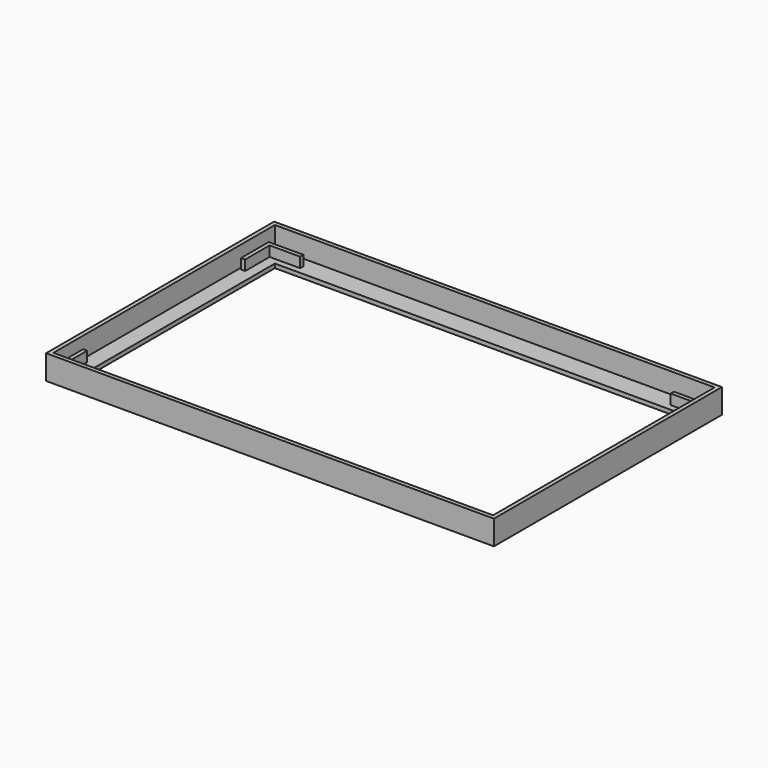
from build123d import *

# Parameters (mm, degrees)
F0_W     = 220
F0_H     = 140
F0_W_2   = 200
F0_H_2   = 115
F1_DEPTH = 2
F2_DEPTH = 5
F3_DEPTH = 10


with BuildPart() as f1:
    # F0 (on Top) → F1 (new body)
    with BuildSketch(Plane.XY):
        with Locations((-1.9406005144, 8.4791064262)):
            Rectangle(F0_W, F0_H)
        Polygon((106.0593994856, 76.4791064262), (106.0593994856, 71.4791064262), (107.0593994856, 71.4791064262), (107.0593994856, 69.4791064262), (107.0593994856, 54.4791064262), (106.0593994856, 54.4791064262), (106.0593994856, -42.5208935738), (107.0593994856, -42.5208935738), (107.0593994856, -57.5208935738), (107.0593994856, -59.5208935738), (106.0593994856, -59.5208935738), (105.0593994856, -59.5208935738), (90.0593994856, -59.5208935738), (-91.9406005144, -59.5208935738), (-106.9406005144, -59.5208935738), (-108.9406005144, -59.5208935738), (-109.9406005144, -59.5208935738), (-109.9406005144, 76.4791064262), align=None, mode=Mode.SUBTRACT)
        Polygon((90.0593994856, 69.4791064262), (90.0593994856, 71.4791064262), (105.0593994856, 71.4791064262), (106.0593994856, 71.4791064262), (106.0593994856, 76.4791064262), (-109.9406005144, 76.4791064262), (-109.9406005144, -59.5208935738), (-108.9406005144, -59.5208935738), (-108.9406005144, -57.5208935738), (-108.9406005144, -42.5208935738), (-106.9406005144, -42.5208935738), (-106.9406005144, -57.5208935738), (-91.9406005144, -57.5208935738), (-91.9406005144, -59.5208935738), (90.0593994856, -59.5208935738), (90.0593994856, -57.5208935738), (105.0593994856, -57.5208935738), (105.0593994856, -42.5208935738), (106.0593994856, -42.5208935738), (106.0593994856, 54.4791064262), (105.0593994856, 54.4791064262), (105.0593994856, 69.4791064262), align=None)
        Polygon((-106.9406005144, 54.4791064262), (-108.9406005144, 54.4791064262), (-108.9406005144, 69.4791064262), (-108.9406005144, 71.4791064262), (-106.9406005144, 71.4791064262), (-91.9406005144, 71.4791064262), (-91.9406005144, 69.4791064262), (-106.9406005144, 69.4791064262), align=None, mode=Mode.SUBTRACT)
        with Locations((-1.9406005144, 8.9791064262)):
            Rectangle(F0_W_2, F0_H_2, mode=Mode.SUBTRACT)
        Polygon((-108.9406005144, -57.5208935738), (-108.9406005144, -59.5208935738), (-106.9406005144, -59.5208935738), (-91.9406005144, -59.5208935738), (-91.9406005144, -57.5208935738), (-106.9406005144, -57.5208935738), (-106.9406005144, -42.5208935738), (-108.9406005144, -42.5208935738), align=None)
        Polygon((-108.9406005144, 69.4791064262), (-108.9406005144, 54.4791064262), (-106.9406005144, 54.4791064262), (-106.9406005144, 69.4791064262), (-91.9406005144, 69.4791064262), (-91.9406005144, 71.4791064262), (-106.9406005144, 71.4791064262), (-108.9406005144, 71.4791064262), align=None)
        Polygon((105.0593994856, 71.4791064262), (90.0593994856, 71.4791064262), (90.0593994856, 69.4791064262), (105.0593994856, 69.4791064262), (105.0593994856, 54.4791064262), (106.0593994856, 54.4791064262), (106.0593994856, 71.4791064262), align=None)
        Polygon((106.0593994856, -59.5208935738), (106.0593994856, -42.5208935738), (105.0593994856, -42.5208935738), (105.0593994856, -57.5208935738), (90.0593994856, -57.5208935738), (90.0593994856, -59.5208935738), (105.0593994856, -59.5208935738), align=None)
        Polygon((107.0593994856, 71.4791064262), (106.0593994856, 71.4791064262), (106.0593994856, 54.4791064262), (107.0593994856, 54.4791064262), (107.0593994856, 69.4791064262), align=None)
        Polygon((107.0593994856, -42.5208935738), (106.0593994856, -42.5208935738), (106.0593994856, -59.5208935738), (107.0593994856, -59.5208935738), (107.0593994856, -57.5208935738), align=None)
    extrude(amount=-F1_DEPTH)

    # F0 (on Top) → F2 (join)
    with BuildSketch(Plane.XY):
        Polygon((-108.9406005144, 69.4791064262), (-108.9406005144, 54.4791064262), (-106.9406005144, 54.4791064262), (-106.9406005144, 69.4791064262), (-91.9406005144, 69.4791064262), (-91.9406005144, 71.4791064262), (-106.9406005144, 71.4791064262), (-108.9406005144, 71.4791064262), align=None)
        Polygon((-108.9406005144, -57.5208935738), (-108.9406005144, -59.5208935738), (-106.9406005144, -59.5208935738), (-91.9406005144, -59.5208935738), (-91.9406005144, -57.5208935738), (-106.9406005144, -57.5208935738), (-106.9406005144, -42.5208935738), (-108.9406005144, -42.5208935738), align=None)
        Polygon((105.0593994856, 71.4791064262), (90.0593994856, 71.4791064262), (90.0593994856, 69.4791064262), (105.0593994856, 69.4791064262), (105.0593994856, 54.4791064262), (106.0593994856, 54.4791064262), (106.0593994856, 71.4791064262), align=None)
        Polygon((106.0593994856, -59.5208935738), (106.0593994856, -42.5208935738), (105.0593994856, -42.5208935738), (105.0593994856, -57.5208935738), (90.0593994856, -57.5208935738), (90.0593994856, -59.5208935738), (105.0593994856, -59.5208935738), align=None)
    extrude(amount=F2_DEPTH)

    # F0 (on Top) → F3 (join)
    with BuildSketch(Plane.XY):
        with Locations((-1.9406005144, 8.4791064262)):
            Rectangle(F0_W, F0_H)
        Polygon((106.0593994856, 76.4791064262), (106.0593994856, 71.4791064262), (107.0593994856, 71.4791064262), (107.0593994856, 69.4791064262), (107.0593994856, 54.4791064262), (106.0593994856, 54.4791064262), (106.0593994856, -42.5208935738), (107.0593994856, -42.5208935738), (107.0593994856, -57.5208935738), (107.0593994856, -59.5208935738), (106.0593994856, -59.5208935738), (105.0593994856, -59.5208935738), (90.0593994856, -59.5208935738), (-91.9406005144, -59.5208935738), (-106.9406005144, -59.5208935738), (-108.9406005144, -59.5208935738), (-109.9406005144, -59.5208935738), (-109.9406005144, 76.4791064262), align=None, mode=Mode.SUBTRACT)
        Polygon((107.0593994856, -42.5208935738), (106.0593994856, -42.5208935738), (106.0593994856, -59.5208935738), (107.0593994856, -59.5208935738), (107.0593994856, -57.5208935738), align=None)
        Polygon((107.0593994856, 71.4791064262), (106.0593994856, 71.4791064262), (106.0593994856, 54.4791064262), (107.0593994856, 54.4791064262), (107.0593994856, 69.4791064262), align=None)
    extrude(amount=F3_DEPTH)


solid = f1.part
